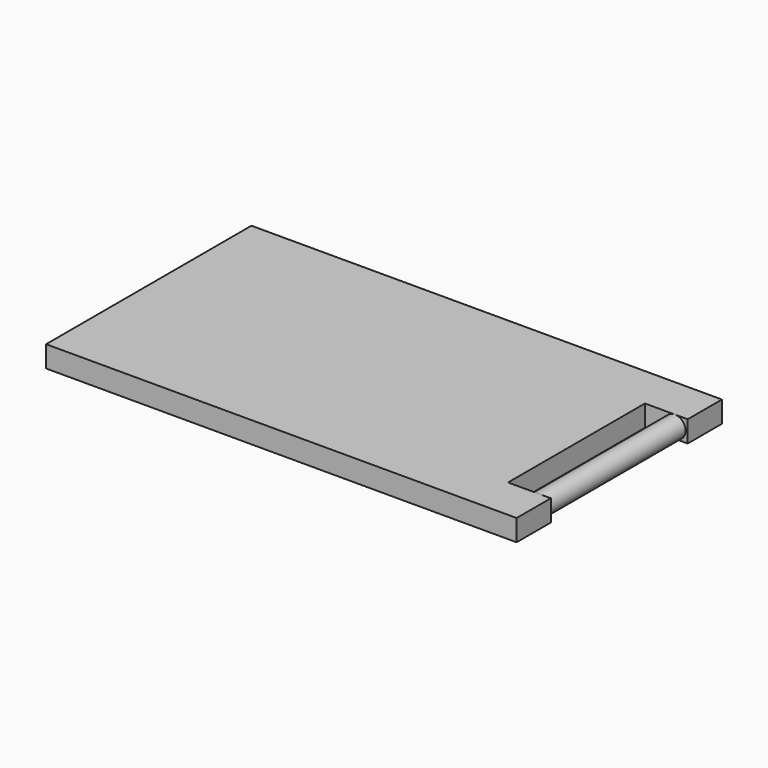
from build123d import *

# Parameters (mm, degrees)
F0_W     = 63.5
F0_H     = 38.1
F1_DEPTH = 3.175
F2_W     = 6.35
F2_H     = 3.175
F3_DEPTH = 6.35
F4_R     = 1.5875
F5_DEPTH = 25.4


with BuildPart() as f1:
    # F0 (on Top) → F1 (new body)
    with BuildSketch(Plane.XY):
        with Locations((25.302306, 74.666583)):
            Rectangle(F0_W, F0_H)
    extrude(amount=F1_DEPTH)

    # F2 (on face) → F3 (join)
    with BuildSketch(Plane.YZ.offset(57.052306)):
        with Locations((58.791583, 1.5875)):
            Rectangle(F2_W, F2_H)
        with Locations((90.541583, 1.5875)):
            Rectangle(F2_W, F2_H)
    extrude(amount=F3_DEPTH)

    # F4 (on face) → F5 (join)
    with BuildSketch(Plane(origin=(0, 61.966583, 0), x_dir=(-1, 0, 0), z_dir=(0, 1, 0))):
        with Locations((-61.497306, 1.5875)):
            Circle(F4_R)
    extrude(amount=F5_DEPTH)


solid = f1.part
